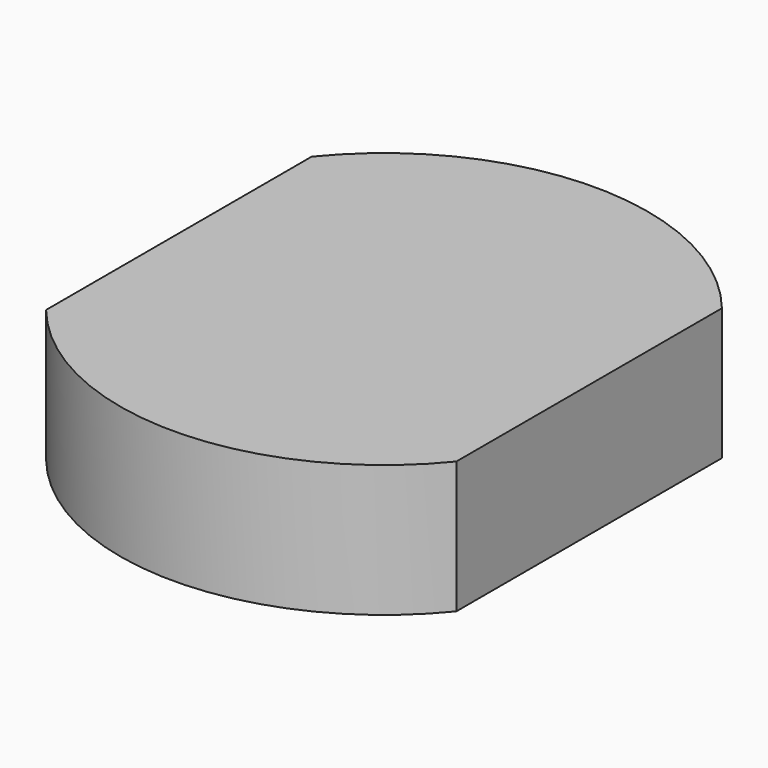
from build123d import *

# Parameters (mm, degrees)
F0_R     = 4
F1_DEPTH = 2
F3_DEPTH = 2.001


with BuildPart() as f1:
    # F0 (on Top) → F1 (new body)
    with BuildSketch(Plane.XY):
        Circle(F0_R)
    extrude(amount=F1_DEPTH)

    # F2 (on face) → F3 (cut, through all)
    with BuildSketch(Plane.XY.offset(2)):
        with BuildLine():
            Line((-3.109797, -2.515783), (-3.109797, 2.515783))
            ThreePointArc((-3.109797, 2.515783), (-4, 0), (-3.109797, -2.515783))
        make_face()
        with BuildLine():
            ThreePointArc((4, 0), (3.770888, 1.334319), (3.109797, 2.515783))
            Line((3.109797, 2.515783), (3.109797, -2.515783))
            ThreePointArc((3.109797, -2.515783), (3.770888, -1.334319), (4, 0))
        make_face()
    extrude(amount=-F3_DEPTH, mode=Mode.SUBTRACT)


solid = f1.part
